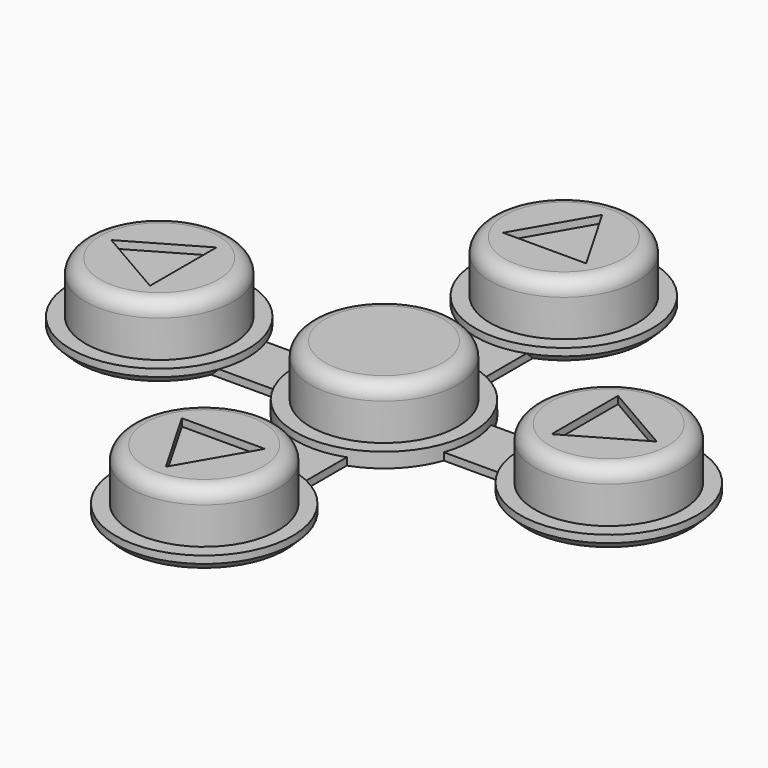
from build123d import *

# Parameters (mm, degrees)
CYLINDER_R             = 5
CYLINDER_DEPTH         = 4.5
FILLET_R               = 1
CYLINDER001_R          = 6
CYLINDER001_DEPTH      = 1
BOX001_W               = 30.48
BOX001_H               = 4
BOX001_DEPTH           = 0.5
BOX001_PLACEMENT_ANGLE = 90
BOX_W                  = 30.48
BOX_H                  = 4
BOX_DEPTH              = 0.5
POCKET_DEPTH           = 0.5
ARRAY_COUNT            = 4
CHAMFER_SIZE           = 0.5


with BuildPart() as button_body_fillet:
    # Cylinder → Cylinder (new body)
    with BuildSketch(Plane.XY.offset(8)):
        Circle(CYLINDER_R)
    extrude(amount=CYLINDER_DEPTH)

    # Fillet
    fillet_edges = [button_body_fillet.edges().sort_by_distance(p)[0] for p in [
        (-5, 0, 12.5),
    ]]
    fillet(fillet_edges, radius=FILLET_R)


with BuildPart() as button_fusion:
    # Cylinder001 → Cylinder001 (new body)
    with BuildSketch(Plane.XY.offset(8)):
        Circle(CYLINDER001_R)
    extrude(amount=CYLINDER001_DEPTH)

    # Fusion: union button-body-fillet
    add(button_body_fillet.part)


with BuildPart() as buttons_forward_backward_union_cube:
    # Box001 → Box001 (new body)
    with BuildSketch(Plane.XY):
        with Locations((15.24, 2)):
            Rectangle(BOX001_W, BOX001_H)
    extrude(amount=BOX001_DEPTH)


with BuildPart() as buttons_forward_backward_union_cube_1:
    # Box001 placement: moved
    add(buttons_forward_backward_union_cube.part.moved(Location((2, -15.24, 8))).rotate(Axis((2, -15.24, 8), (0, 0, 1)), BOX001_PLACEMENT_ANGLE))


with BuildPart() as buttons_left_right_union_cube:
    # Box → Box (new body)
    with BuildSketch(Plane(origin=(-15.24, -2, 8), x_dir=(1, 0, 0), z_dir=(0, 0, 1))):
        with Locations((15.24, 2)):
            Rectangle(BOX_W, BOX_H)
    extrude(amount=BOX_DEPTH)


with BuildPart() as keypad_buttons_printing:
    # Clone base: copy of button-fusion
    add(button_fusion.part)


with BuildPart() as keypad_buttons_printing_1:
    # Clone placement: moved
    add(keypad_buttons_printing.part.moved(Location((15.24, 0, 0))))

    # Sketch → Pocket (cut)
    with BuildSketch(Plane(origin=(15.24, 0, 12.5), x_dir=(1, 0, 0), z_dir=(0, 0, 1))):
        Polygon((-1.625, 2.814583), (-1.625, -2.814583), (3.25, 0), align=None)
    extrude(amount=-POCKET_DEPTH, mode=Mode.SUBTRACT)

    # Array: keypad-buttons (printing) ×4 about axis
    array_axis = Axis((0, 0, 0), (0, 0, 1))


with BuildPart() as keypad_buttons_printing_2:
    add(keypad_buttons_printing_1.part)
    for i in range(1, ARRAY_COUNT):
        add(keypad_buttons_printing_1.part.rotate(array_axis, i * 360 / ARRAY_COUNT))

    # Fusion001: union button-fusion, buttons-forward-backward-union-cube, buttons-left-right-union-cube
    add(button_fusion.part)
    add(buttons_forward_backward_union_cube_1.part)
    add(buttons_left_right_union_cube.part)

    # Chamfer
    chamfer_edges = [keypad_buttons_printing_2.edges().sort_by_distance(p)[0] for p in [
        (16.254612, 5.913591, 8),
        (16.254612, -5.913591, 8),
        (5.913591, -16.254612, 8),
        (-5.913591, -16.254612, 8),
        (-16.254612, -5.913591, 8),
        (-16.254612, 5.913591, 8),
        (-5.913591, 16.254612, 8),
        (5.913591, 16.254612, 8),
    ]]
    chamfer(chamfer_edges, length=CHAMFER_SIZE)


solid = keypad_buttons_printing_2.part
